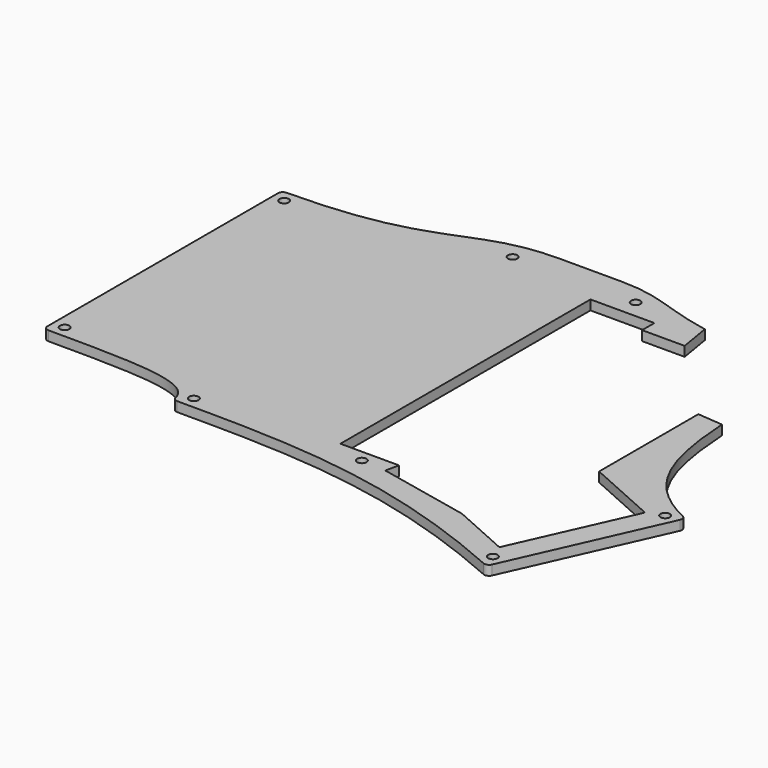
from build123d import *

# Parameters (mm, degrees)
PAD007_DEPTH    = 3
POCKET010_DEPTH = 5
SKETCH042_R     = 1.45
POCKET018_DEPTH = 16
POCKET024_DEPTH = 19
FILLET005_R     = 1.5


with BuildPart() as part:
    # Sketch029 → Pad007 (new body)
    with BuildSketch(Plane.XY):
        with BuildLine():
            Line((85.725, 98.4875), (66.675, 98.4875))
            add(Edge.make_bspline(
                [(-8, 84.2), (39.625, 84.2), (39.625, 98.4875), (66.675, 98.4875)],
                knots=[0, 0, 0, 0, 1, 1, 1, 1], degree=3))
            Line((-8, 84.2), (-8, -8))
            add(Edge.make_bspline(
                [(39.625, -17.525), (39.625, -8), (20.575, -8), (-8, -8)],
                knots=[0, 0, 0, 0, 1, 1, 1, 1], degree=3))
            add(Edge.make_bspline(
                [(153.231854, -38.154949), (107.082107, -17.525), (76.2, -17.525), (39.625, -17.525)],
                knots=[0, 0, 0, 0, 1, 1, 1, 1], degree=3))
            Line((153.231854, -38.154949), (175.310198, 11.234895))
            add(Edge.make_bspline(
                [(150.875, 88.9625), (150.875, 42.8625), (150.875, 22.157965), (175.310198, 11.234895)],
                knots=[0, 0, 0, 0, 1, 1, 1, 1], degree=3))
            add(Edge.make_bspline(
                [(85.725, 98.4875), (104.775, 98.4875), (104.775, 88.9625), (150.875, 88.9625)],
                knots=[0, 0, 0, 0, 1, 1, 1, 1], degree=3))
        make_face()
    extrude(amount=PAD007_DEPTH)

    # Sketch028 → Pocket010 (cut)
    with BuildSketch(Plane(origin=(0, 0, 0), x_dir=(1, 0, 0), z_dir=(0, 0, -1))):
        Polygon((85.725, -86.475), (105.525, -86.475), (105.525, -81.7125), (143.625, -81.7125), (143.625, -17.457464), (165.732668, -7.574851), (149.57181, 28.577419), (131.568158, 20.529392), (102.96164, 14.448889), (103.848827, 10.275), (85.725, 10.275), align=None)
    extrude(amount=-POCKET010_DEPTH, mode=Mode.SUBTRACT)

    # Sketch042 → Pocket018 (cut)
    with BuildSketch(Plane.XY):
        with Locations((-4.375, -4.375)):
            Circle(SKETCH042_R)
        with Locations((-4.375, 80.575)):
            Circle(SKETCH042_R)
        with Locations((151.401832, -33.366184)):
            Circle(SKETCH042_R)
        with Locations((170.521433, 9.404873)):
            Circle(SKETCH042_R)
        with Locations((147.25, 85.3375)):
            Circle(SKETCH042_R)
        with Locations((43.25, -13.9)):
            Circle(SKETCH042_R)
        with Locations((57.15, 92.085)):
            Circle(SKETCH042_R)
        with Locations((95.25, 92.085)):
            Circle(SKETCH042_R)
        with Locations((95.25, -13.9)):
            Circle(SKETCH042_R)
    extrude(amount=POCKET018_DEPTH, mode=Mode.SUBTRACT)

    # Sketch050 → Pocket024 (cut)
    with BuildSketch(Plane.XY):
        Polygon((118.825, 80.9625), (116.825, 92.9625), (166.907578, 98.346489), (154.875, 54.9125), (142.875, 55.9125), align=None)
    extrude(amount=POCKET024_DEPTH, mode=Mode.SUBTRACT)

    # Fillet005
    fillet005_edges = [part.edges().sort_by_distance(p)[0] for p in [
        (-8, 84.2, 1.5),
        (-8, -8, 1.5),
        (39.625, -17.525, 1.5),
        (153.231854, -38.154949, 1.5),
        (175.310198, 11.234895, 1.5),
    ]]
    fillet(fillet005_edges, radius=FILLET005_R)


with BuildPart() as part_1:
    # Body006 placement: moved
    add(part.part.moved(Location((0, 0, -9))))


solid = part_1.part
